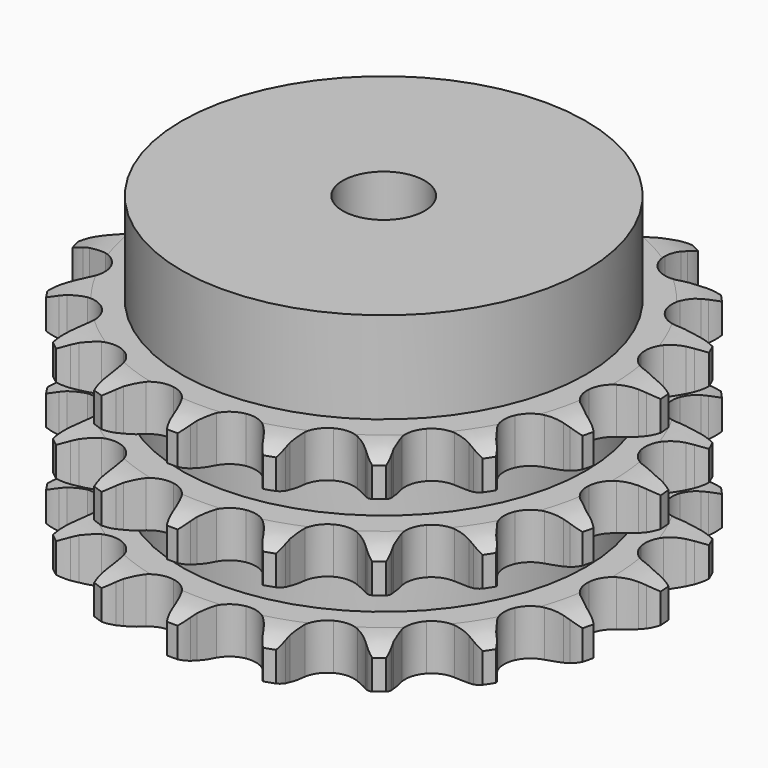
from build123d import *

# Parameters (mm, degrees)
PAD_DEPTH         = 42.1
SKETCH001_R       = 39.5
PAD001_DEPTH      = 60
SKETCH002_R       = 8
POCKET_DEPTH      = 0.001
POCKET_DEPTH_BACK = 60.001


with BuildPart() as part:
    # Sprocket → Pad (new body)
    with BuildSketch(Plane.XY):
        with BuildLine():
            ThreePointArc((-8.746489, 52.414836), (-7.326669, 50.947056), (-6.302943, 49.180066))
            Line((-6.302943, 49.180066), (-5.815796, 48.038254))
            ThreePointArc((-5.815796, 48.038254), (-5.028476, 46.48424), (-4.044391, 45.046737))
            ThreePointArc((-4.044391, 45.046737), (-2.24839, 43.5985), (0, 43.08105))
            ThreePointArc((0, 43.08105), (2.24839, 43.5985), (4.044391, 45.046737))
            ThreePointArc((4.044391, 45.046737), (5.028476, 46.48424), (5.815796, 48.038254))
            Line((5.815796, 48.038254), (6.302943, 49.180066))
            ThreePointArc((6.302943, 49.180066), (7.326669, 50.947056), (8.746489, 52.414836))
            ThreePointArc((8.746489, 52.414836), (9.612792, 50.565569), (10.007309, 48.561916))
            Line((10.007309, 48.561916), (10.097316, 47.323795))
            ThreePointArc((10.097316, 47.323795), (10.337389, 45.598339), (10.801397, 43.919193))
            ThreePointArc((10.801397, 43.919193), (12.029844, 41.966264), (13.988394, 40.7468))
            ThreePointArc((13.988394, 40.7468), (16.282976, 40.506162), (18.451907, 41.292769))
            Line((18.451907, 41.292769), (21.098676, 43.547023))
            ThreePointArc((21.098676, 43.547023), (21.503641, 44.017635), (21.930174, 44.468792))
            ThreePointArc((21.930174, 44.468792), (23.472172, 45.807638), (25.29165, 46.734875))
            ThreePointArc((25.29165, 46.734875), (25.510558, 44.704519), (25.233113, 42.68133))
            Line((25.233113, 42.68133), (24.916227, 41.481068))
            ThreePointArc((24.916227, 41.481068), (24.583037, 39.77115), (24.476686, 38.032322))
            ThreePointArc((24.476686, 38.032322), (25.004457, 35.786332), (26.460928, 33.997002))
            ThreePointArc((26.460928, 33.997002), (28.553049, 33.024353), (30.859872, 33.064089))
            Line((30.859872, 33.064089), (34.095187, 34.336797))
            ThreePointArc((34.095187, 34.336797), (34.631017, 34.650417), (35.180929, 34.938634))
            ThreePointArc((35.180929, 34.938634), (37.0741, 35.704252), (39.096067, 35.990465))
            ThreePointArc((39.096067, 35.990465), (38.643859, 33.99904), (37.724519, 32.175559))
            Line((37.724519, 32.175559), (37.035078, 31.143224))
            ThreePointArc((37.035078, 31.143224), (36.164732, 29.634141), (35.499546, 28.024059))
            ThreePointArc((35.499546, 28.024059), (35.26945, 25.728396), (36.066011, 23.563101))
            ThreePointArc((36.066011, 23.563101), (37.728956, 21.963843), (39.923691, 21.252401))
            Line((39.923691, 21.252401), (43.396955, 21.405646))
            ThreePointArc((43.396955, 21.405646), (44.005585, 21.528289), (44.619286, 21.622333))
            ThreePointArc((44.619286, 21.622333), (46.658475, 21.731757), (48.66382, 21.34593))
            ThreePointArc((48.66382, 21.34593), (47.589498, 19.609237), (46.127887, 18.183067))
            Line((46.127887, 18.183067), (45.140603, 17.430528))
            ThreePointArc((45.140603, 17.430528), (43.827416, 16.285812), (42.67548, 14.978954))
            ThreePointArc((42.67548, 14.978954), (41.71245, 12.882389), (41.762781, 10.575772))
            ThreePointArc((41.762781, 10.575772), (42.816345, 8.523209), (44.661159, 7.137686))
            Line((44.661159, 7.137686), (47.99599, 6.15486))
            ThreePointArc((47.99599, 6.15486), (48.611465, 6.073237), (49.22245, 5.962917))
            ThreePointArc((49.22245, 5.962917), (51.18668, 5.404288), (52.958092, 4.388233))
            ThreePointArc((52.958092, 4.388233), (51.378077, 3.09447), (49.532584, 2.220158))
            Line((49.532584, 2.220158), (48.354444, 1.828964))
            ThreePointArc((48.354444, 1.828964), (46.740721, 1.172663), (45.226863, 0.310648))
            ThreePointArc((45.226863, 0.310648), (43.63526, -1.359625), (42.933906, -3.557605))
            ThreePointArc((42.933906, -3.557605), (43.263919, -5.841046), (44.558897, -7.750508))
            Line((44.558897, -7.750508), (47.393915, -9.762899))
            ThreePointArc((47.393915, -9.762899), (47.949539, -10.039945), (48.491598, -10.342673))
            ThreePointArc((48.491598, -10.342673), (50.168014, -11.508819), (51.513533, -13.044998))
            ThreePointArc((51.513533, -13.044998), (49.599044, -13.755631), (47.569656, -13.98334))
            Line((47.569656, -13.98334), (46.328331, -13.970796))
            ThreePointArc((46.328331, -13.970796), (44.588942, -14.067562), (42.877214, -14.391323))
            ThreePointArc((42.877214, -14.391323), (40.829511, -15.454302), (39.452476, -17.305461))
            ThreePointArc((39.452476, -17.305461), (39.023176, -19.572334), (39.627987, -21.798814))
            Line((39.627987, -21.798814), (41.655974, -24.622698))
            ThreePointArc((41.655974, -24.622698), (42.091536, -25.065143), (42.505929, -25.527475))
            ThreePointArc((42.505929, -25.527475), (43.712865, -27.174767), (44.486684, -29.064601))
            ThreePointArc((44.486684, -29.064601), (42.445185, -29.115097), (40.451818, -28.671526))
            Line((40.451818, -28.671526), (39.281824, -28.256604))
            ThreePointArc((39.281824, -28.256604), (37.60526, -27.783349), (35.881154, -27.53377))
            ThreePointArc((35.881154, -27.53377), (33.599252, -27.874266), (31.695758, -29.178001))
            ThreePointArc((31.695758, -29.178001), (30.553666, -31.182655), (30.40277, -33.48488))
            Line((30.40277, -33.48488), (31.403961, -36.814244))
            ThreePointArc((31.403961, -36.814244), (31.672262, -37.374144), (31.914083, -37.945978))
            ThreePointArc((31.914083, -37.945978), (32.520749, -39.895907), (32.639012, -41.934603))
            ThreePointArc((32.639012, -41.934603), (30.691731, -41.319489), (28.950397, -40.252707))
            Line((28.950397, -40.252707), (27.978522, -39.480371))
            ThreePointArc((27.978522, -39.480371), (26.546465, -38.488379), (24.996813, -37.692506))
            ThreePointArc((24.996813, -37.692506), (22.727992, -37.273621), (20.504313, -37.888652))
            ThreePointArc((20.504313, -37.888652), (18.773193, -39.413852), (17.882941, -41.542341))
            Line((17.882941, -41.542341), (17.748842, -45.016397))
            ThreePointArc((17.748842, -45.016397), (17.820807, -45.633076), (17.863851, -46.252446))
            ThreePointArc((17.863851, -46.252446), (17.804505, -48.293707), (17.254397, -50.260341))
            ThreePointArc((17.254397, -50.260341), (15.612352, -49.046274), (14.311752, -47.471883))
            Line((14.311752, -47.471883), (13.643313, -46.425827))
            ThreePointArc((13.643313, -46.425827), (12.610948, -45.022595), (11.40368, -43.766674))
            ThreePointArc((11.40368, -43.766674), (9.393802, -42.633801), (7.090908, -42.49348))
            ThreePointArc((7.090908, -42.49348), (4.958352, -43.373946), (3.425218, -45.098044))
            Line((3.425218, -45.098044), (2.170361, -48.340324))
            ThreePointArc((2.170361, -48.340324), (2.038191, -48.946956), (1.877793, -49.546744))
            ThreePointArc((1.877793, -49.546744), (1.158867, -51.458134), (0, -53.13959))
            ThreePointArc((0, -53.13959), (-1.158867, -51.458134), (-1.877793, -49.546744))
            Line((-1.877793, -49.546744), (-2.170361, -48.340324))
            ThreePointArc((-2.170361, -48.340324), (-2.691161, -46.677915), (-3.425218, -45.098044))
            ThreePointArc((-3.425218, -45.098044), (-4.958352, -43.373946), (-7.090908, -42.49348))
            ThreePointArc((-7.090908, -42.49348), (-9.393802, -42.633801), (-11.40368, -43.766674))
            Line((-11.40368, -43.766674), (-13.643313, -46.425827))
            ThreePointArc((-13.643313, -46.425827), (-13.965295, -46.956675), (-14.311752, -47.471883))
            ThreePointArc((-14.311752, -47.471883), (-15.612352, -49.046274), (-17.254397, -50.260341))
            ThreePointArc((-17.254397, -50.260341), (-17.804505, -48.293707), (-17.863851, -46.252446))
            Line((-17.863851, -46.252446), (-17.748842, -45.016397))
            ThreePointArc((-17.748842, -45.016397), (-17.70164, -43.274959), (-17.882941, -41.542341))
            ThreePointArc((-17.882941, -41.542341), (-18.773193, -39.413852), (-20.504313, -37.888652))
            ThreePointArc((-20.504313, -37.888652), (-22.727992, -37.273621), (-24.996813, -37.692506))
            Line((-24.996813, -37.692506), (-27.978522, -39.480371))
            ThreePointArc((-27.978522, -39.480371), (-28.455424, -39.877909), (-28.950397, -40.252707))
            ThreePointArc((-28.950397, -40.252707), (-30.691731, -41.319489), (-32.639012, -41.934603))
            ThreePointArc((-32.639012, -41.934603), (-32.520749, -39.895907), (-31.914083, -37.945978))
            Line((-31.914083, -37.945978), (-31.403961, -36.814244))
            ThreePointArc((-31.403961, -36.814244), (-30.793873, -35.182489), (-30.40277, -33.48488))
            ThreePointArc((-30.40277, -33.48488), (-30.553666, -31.182655), (-31.695758, -29.178001))
            ThreePointArc((-31.695758, -29.178001), (-33.599252, -27.874266), (-35.881154, -27.53377))
            Line((-35.881154, -27.53377), (-39.281824, -28.256604))
            ThreePointArc((-39.281824, -28.256604), (-39.861967, -28.477753), (-40.451818, -28.671526))
            ThreePointArc((-40.451818, -28.671526), (-42.445185, -29.115097), (-44.486684, -29.064601))
            ThreePointArc((-44.486684, -29.064601), (-43.712865, -27.174767), (-42.505929, -25.527475))
            Line((-42.505929, -25.527475), (-41.655974, -24.622698))
            ThreePointArc((-41.655974, -24.622698), (-40.549111, -23.27745), (-39.627987, -21.798814))
            ThreePointArc((-39.627987, -21.798814), (-39.023176, -19.572334), (-39.452476, -17.305461))
            ThreePointArc((-39.452476, -17.305461), (-40.829511, -15.454302), (-42.877214, -14.391323))
            Line((-42.877214, -14.391323), (-46.328331, -13.970796))
            ThreePointArc((-46.328331, -13.970796), (-46.948846, -13.99159), (-47.569656, -13.98334))
            ThreePointArc((-47.569656, -13.98334), (-49.599044, -13.755631), (-51.513533, -13.044998))
            ThreePointArc((-51.513533, -13.044998), (-50.168014, -11.508819), (-48.491598, -10.342673))
            Line((-48.491598, -10.342673), (-47.393915, -9.762899))
            ThreePointArc((-47.393915, -9.762899), (-45.910224, -8.849939), (-44.558897, -7.750508))
            ThreePointArc((-44.558897, -7.750508), (-43.263919, -5.841046), (-42.933906, -3.557605))
            ThreePointArc((-42.933906, -3.557605), (-43.63526, -1.359625), (-45.226863, 0.310648))
            Line((-45.226863, 0.310648), (-48.354444, 1.828964))
            ThreePointArc((-48.354444, 1.828964), (-48.94809, 2.010779), (-49.532584, 2.220158))
            ThreePointArc((-49.532584, 2.220158), (-51.378077, 3.09447), (-52.958092, 4.388233))
            ThreePointArc((-52.958092, 4.388233), (-51.18668, 5.404288), (-49.22245, 5.962917))
            Line((-49.22245, 5.962917), (-47.99599, 6.15486))
            ThreePointArc((-47.99599, 6.15486), (-46.296252, 6.536601), (-44.661159, 7.137686))
            ThreePointArc((-44.661159, 7.137686), (-42.816345, 8.523209), (-41.762781, 10.575772))
            ThreePointArc((-41.762781, 10.575772), (-41.71245, 12.882389), (-42.67548, 14.978954))
            Line((-42.67548, 14.978954), (-45.140603, 17.430528))
            ThreePointArc((-45.140603, 17.430528), (-45.643049, 17.795248), (-46.127887, 18.183067))
            ThreePointArc((-46.127887, 18.183067), (-47.589498, 19.609237), (-48.66382, 21.34593))
            ThreePointArc((-48.66382, 21.34593), (-46.658475, 21.731757), (-44.619286, 21.622333))
            Line((-44.619286, 21.622333), (-43.396955, 21.405646))
            ThreePointArc((-43.396955, 21.405646), (-41.665363, 21.214798), (-39.923691, 21.252401))
            ThreePointArc((-39.923691, 21.252401), (-37.728956, 21.963843), (-36.066011, 23.563101))
            ThreePointArc((-36.066011, 23.563101), (-35.26945, 25.728396), (-35.499546, 28.024059))
            Line((-35.499546, 28.024059), (-37.035078, 31.143224))
            ThreePointArc((-37.035078, 31.143224), (-37.391875, 31.651326), (-37.724519, 32.175559))
            ThreePointArc((-37.724519, 32.175559), (-38.643859, 33.99904), (-39.096067, 35.990465))
            ThreePointArc((-39.096067, 35.990465), (-37.0741, 35.704252), (-35.180929, 34.938634))
            Line((-35.180929, 34.938634), (-34.095187, 34.336797))
            ThreePointArc((-34.095187, 34.336797), (-32.519385, 33.594043), (-30.859872, 33.064089))
            ThreePointArc((-30.859872, 33.064089), (-28.553049, 33.024353), (-26.460928, 33.997002))
            ThreePointArc((-26.460928, 33.997002), (-25.004457, 35.786332), (-24.476686, 38.032322))
            Line((-24.476686, 38.032322), (-24.916227, 41.481068))
            ThreePointArc((-24.916227, 41.481068), (-25.088711, 42.077492), (-25.233113, 42.68133))
            ThreePointArc((-25.233113, 42.68133), (-25.510558, 44.704519), (-25.29165, 46.734875))
            ThreePointArc((-25.29165, 46.734875), (-23.472172, 45.807638), (-21.930174, 44.468792))
            Line((-21.930174, 44.468792), (-21.098676, 43.547023))
            ThreePointArc((-21.098676, 43.547023), (-19.849427, 42.332852), (-18.451907, 41.292769))
            ThreePointArc((-18.451907, 41.292769), (-16.282976, 40.506162), (-13.988394, 40.7468))
            ThreePointArc((-13.988394, 40.7468), (-12.029844, 41.966264), (-10.801397, 43.919193))
            Line((-10.801397, 43.919193), (-10.097316, 47.323795))
            ThreePointArc((-10.097316, 47.323795), (-10.066797, 47.943909), (-10.007309, 48.561916))
            ThreePointArc((-10.007309, 48.561916), (-9.612792, 50.565569), (-8.746489, 52.414836))
        make_face()
    extrude(amount=PAD_DEPTH)

    # Sketch → Groove (revolve, cut)
    with BuildSketch(Plane.XZ):
        with BuildLine():
            ThreePointArc((44.675762, 0), (48.25347, 0.405129), (51.65, 1.6))
            Line((51.65, 1.6), (51.65, 7.4))
            ThreePointArc((51.65, 7.4), (48.25347, 8.594871), (44.675762, 9))
            Line((39.5, 9), (44.675762, 9))
            Line((39.5, 9), (39.5, 16.55))
            Line((39.5, 16.55), (44.675762, 16.55))
            ThreePointArc((44.675762, 16.55), (48.25347, 16.955129), (51.65, 18.15))
            Line((51.65, 23.95), (51.65, 18.15))
            ThreePointArc((51.65, 23.95), (48.25347, 25.144871), (44.675762, 25.55))
            Line((39.5, 25.55), (44.675762, 25.55))
            Line((39.5, 33.1), (39.5, 25.55))
            Line((44.675762, 33.1), (39.5, 33.1))
            ThreePointArc((44.675762, 33.1), (48.25347, 33.505129), (51.65, 34.7))
            Line((51.65, 34.7), (51.65, 40.5))
            ThreePointArc((51.65, 40.5), (48.25347, 41.694871), (44.675762, 42.1))
            Line((44.675762, 42.1), (61.65, 42.1))
            Line((61.65, 42.1), (61.65, 0))
            Line((44.675762, 0), (61.65, 0))
        make_face()
    revolve(axis=Axis((0, 0, 0), (0, 0, 1)), mode=Mode.SUBTRACT)

    # Sketch001 → Pad001 (join)
    with BuildSketch(Plane.XY):
        Circle(SKETCH001_R)
    extrude(amount=PAD001_DEPTH)

    # Sketch002 → Pocket (cut, two sides)
    with BuildSketch(Plane.XY) as pocket_sk:
        Circle(SKETCH002_R)
    extrude(amount=-POCKET_DEPTH, mode=Mode.SUBTRACT)
    extrude(pocket_sk.sketch, amount=POCKET_DEPTH_BACK, mode=Mode.SUBTRACT)


solid = part.part
